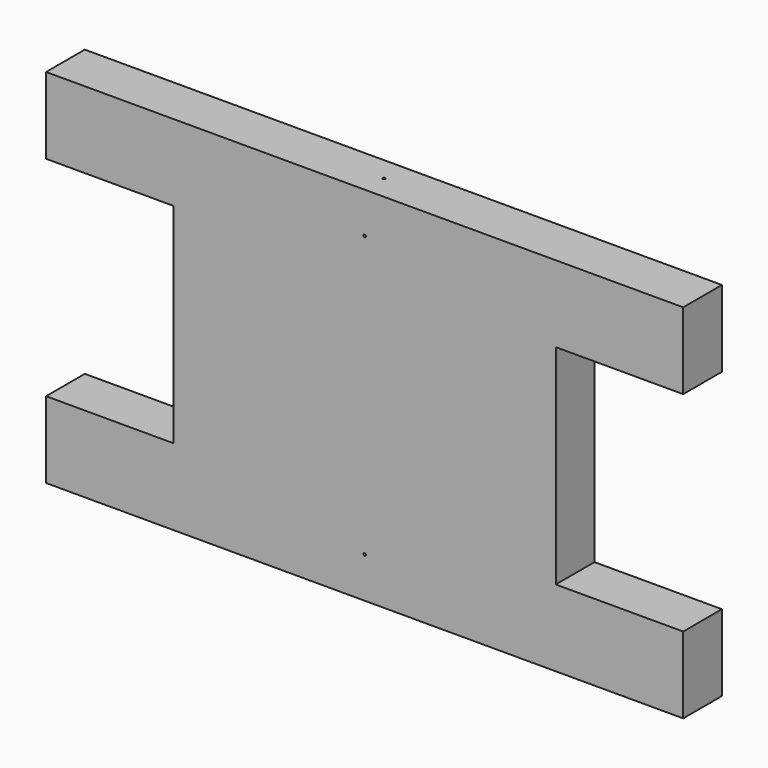
from build123d import *

# Parameters (mm, degrees)
F0_W     = 150
F0_H     = 142
F0_R     = 0.5
F1_DEPTH = 19
F2_R     = 0.5
F3_DEPTH = 1
F4_R     = 0.5
F5_DEPTH = 1
F6_W     = 19
F6_H     = 30
F7_DEPTH = 50
F8_W     = 19
F8_H     = 30
F9_DEPTH = 50


with BuildPart() as f1:
    # F0 (on Front) → F1 (new body)
    with BuildSketch(Plane.XZ):
        with Locations((75, 71)):
            Rectangle(F0_W, F0_H)
        with Locations((75, 16)):
            Circle(F0_R, mode=Mode.SUBTRACT)
        with Locations((75, 126)):
            Circle(F0_R, mode=Mode.SUBTRACT)
    extrude(amount=F1_DEPTH)

    # F2 (on face) → F3 (cut)
    with BuildSketch(Plane(origin=(0, 0, 0), x_dir=(1, 0, 0), z_dir=(0, 0, -1))):
        with Locations((75, 9.5)):
            Circle(F2_R)
    extrude(amount=-F3_DEPTH, mode=Mode.SUBTRACT)

    # F4 (on face) → F5 (cut)
    with BuildSketch(Plane.XY.offset(142)):
        with Locations((75, -9.5)):
            Circle(F4_R)
    extrude(amount=-F5_DEPTH, mode=Mode.SUBTRACT)

    # F6 (on face) → F7 (join)
    with BuildSketch(Plane(origin=(0, 0, 0), x_dir=(0, -1, 0), z_dir=(-1, 0, 0))):
        with Locations((9.5, 127)):
            Rectangle(F6_W, F6_H)
        with Locations((9.5, 15)):
            Rectangle(F6_W, F6_H)
    extrude(amount=F7_DEPTH)

    # F8 (on face) → F9 (join)
    with BuildSketch(Plane.YZ.offset(150)):
        with Locations((-9.5, 15)):
            Rectangle(F8_W, F8_H)
        with Locations((-9.5, 127)):
            Rectangle(F8_W, F8_H)
    extrude(amount=F9_DEPTH)


solid = f1.part
